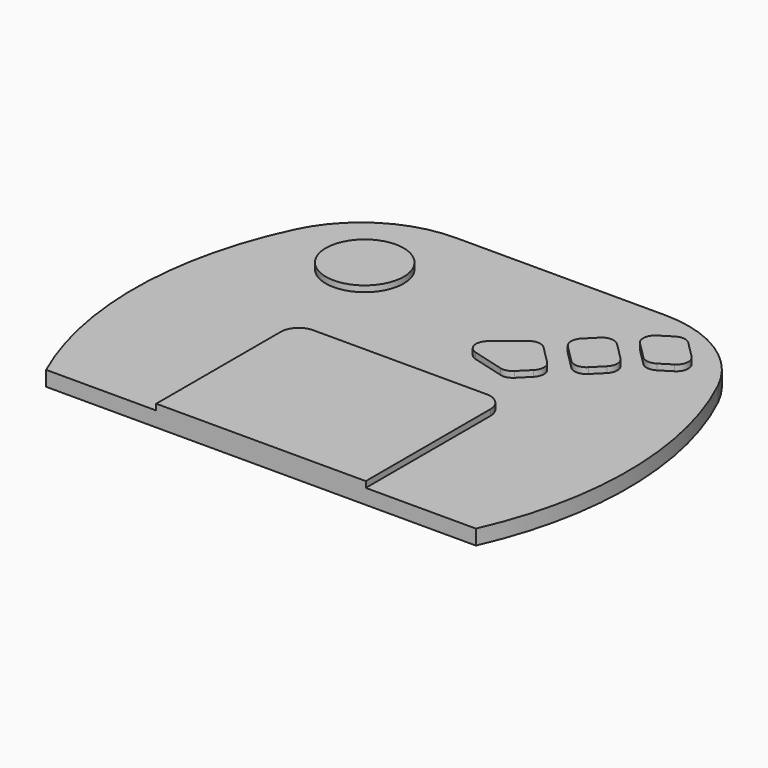
from build123d import *

# Parameters (mm, degrees)
PAD_DEPTH    = 5
SKETCH001_R  = 13
SKETCH001_W  = 70
SKETCH001_H  = 58
PAD001_DEPTH = 2
FILLET_R     = 6


with BuildPart() as part:
    # Sketch → Pad (new body)
    with BuildSketch(Plane.XY):
        with BuildLine():
            ThreePointArc((1.143406, 102.474844), (-10.692396, 51.363106), (0, 0))
            Line((0, 0), (143.6, 0))
            ThreePointArc((143.6, 0), (154.292396, 51.363106), (142.456594, 102.474844))
            ThreePointArc((142.456594, 102.474844), (127.887765, 118.897055), (106.8, 125))
            Line((36.8, 125), (106.8, 125))
            ThreePointArc((36.8, 125), (15.712235, 118.897055), (1.143406, 102.474844))
        make_face()
    extrude(amount=PAD_DEPTH)

    # Sketch001 (on Face8 of Pad) → Pad001 (join)
    with BuildSketch(Plane.XY.offset(5)):
        with Locations((29.414366, 96.303098)):
            Circle(SKETCH001_R)
        with BuildLine():
            Line((114.734451, 111.679694), (118.692177, 114.166539))
            ThreePointArc((123.648757, 113.608086), (121.268173, 114.754509), (118.692177, 114.166539))
            Line((123.648757, 113.608086), (129.257643, 107.9992))
            ThreePointArc((128.55737, 101.783892), (130.404067, 104.72293), (129.257643, 107.9992))
            Line((128.55737, 101.783892), (124.599644, 99.297046))
            ThreePointArc((119.643063, 99.8555), (122.023647, 98.709076), (124.599644, 99.297046))
            Line((119.643063, 99.8555), (114.034177, 105.464386))
            ThreePointArc((114.734451, 111.679694), (112.887754, 108.740656), (114.034177, 105.464386))
        make_face()
        with BuildLine():
            Line((100.409759, 98.017022), (103.874582, 101.481845))
            ThreePointArc((109.531436, 101.481845), (106.703009, 102.653418), (103.874582, 101.481845))
            Line((109.531436, 101.481845), (115.400423, 95.612859))
            ThreePointArc((115.400423, 89.956005), (116.571995, 92.784432), (115.400423, 95.612859))
            Line((115.400423, 89.956005), (111.935599, 86.491182))
            ThreePointArc((106.278745, 86.491182), (109.107172, 85.319609), (111.935599, 86.491182))
            Line((106.278745, 86.491182), (100.409759, 92.360168))
            ThreePointArc((100.409759, 98.017022), (99.238186, 95.188595), (100.409759, 92.360168))
        make_face()
        with BuildLine():
            Line((90.420412, 88.28179), (82.286178, 81.642193))
            ThreePointArc((82.286178, 81.642193), (80.902255, 77.715104), (83.758696, 74.68558))
            Line((83.758696, 74.68558), (94.367803, 71.779235))
            ThreePointArc((94.367803, 71.779235), (96.449132, 71.770511), (98.253083, 72.808665))
            Line((98.253083, 72.808665), (101.788617, 76.344199))
            ThreePointArc((101.788617, 76.344199), (102.96019, 79.172626), (101.788617, 82.001054))
            Line((101.788617, 82.001054), (95.778209, 88.011461))
            ThreePointArc((95.778209, 88.011461), (93.151347, 89.177952), (90.420412, 88.28179))
        make_face()
        with Locations((71.8, 29)):
            Rectangle(SKETCH001_W, SKETCH001_H)
    extrude(amount=PAD001_DEPTH)

    # Fillet
    fillet_edges = [part.edges().sort_by_distance(p)[0] for p in [
        (36.8, 58, 6),
        (106.8, 58, 6),
    ]]
    fillet(fillet_edges, radius=FILLET_R)


solid = part.part
